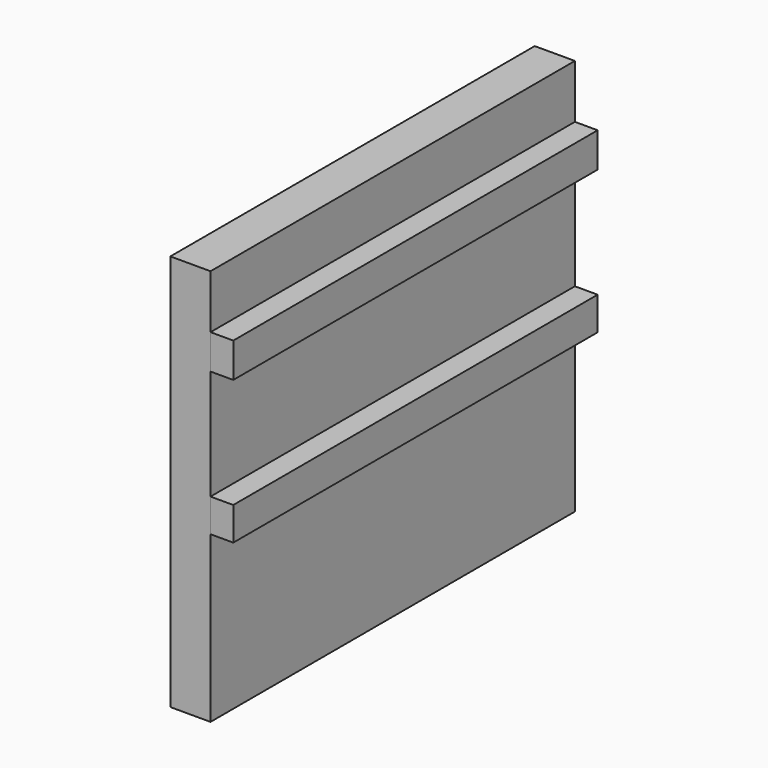
from build123d import *

# Parameters (mm, degrees)
F0_W     = 11.194817
F0_H     = 110.631112
F1_DEPTH = 127
F2_W     = 127
F2_H     = 9.664305
F2_H_2   = 9.241795
F3_DEPTH = 6.35


with BuildPart() as f1:
    # F0 (on Front) → F1 (new body)
    with BuildSketch(Plane.XZ):
        with Locations((-50.870556, -13.664259)):
            Rectangle(F0_W, F0_H)
    extrude(amount=-F1_DEPTH)


with BuildPart() as f3:
    # F2 (on face) → F3 (new body)
    with BuildSketch(Plane.YZ.offset(-45.273148)):
        with Locations((63.5, 21.863432)):
            Rectangle(F2_W, F2_H)
        with Locations((63.5, -18.285156)):
            Rectangle(F2_W, F2_H_2)
    extrude(amount=F3_DEPTH)


solid = Compound([f1.part, f3.part])
